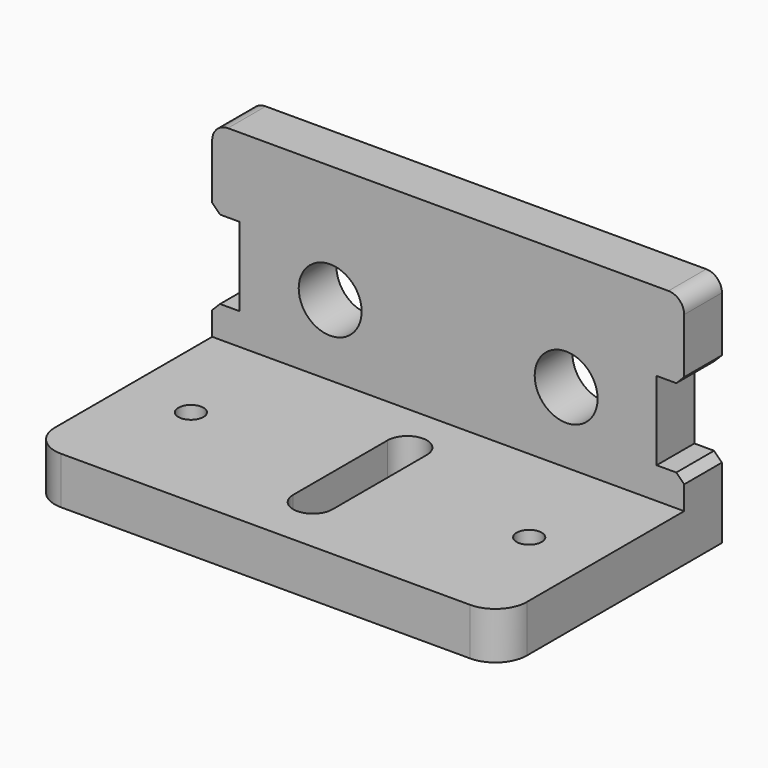
from build123d import *

# Parameters (mm, degrees)
F1_DEPTH  = 30
F3_D      = 3.2
F4_R      = 4
F4_W      = 3.5
F4_H      = 10
F5_DEPTH  = 35.001
F6_SIZE   = 1
F7_R      = 2
F8_R      = 4
F10_DEPTH = 6.001


with BuildPart() as f1:
    # F0 (on Right) → F1 (new body, symmetric)
    with BuildSketch(Plane.YZ):
        Polygon((-17.5, 0), (17.5, 0), (17.5, 30), (11.5, 30), (11.5, 6), (-17.5, 6), align=None)
    extrude(amount=F1_DEPTH, both=True)

    # F3 (through all)
    with Locations(Plane.XY.offset(6)):
        with Locations((-21.5, -2.5), (21.5, -2.5)):
            Hole(F3_D / 2)

    # F4 (on face) → F5 (cut, through all)
    with BuildSketch(Plane(origin=(0, 17.5, 0), x_dir=(-1, 0, 0), z_dir=(0, 1, 0))):
        with Locations((-15, 15)):
            Circle(F4_R)
        with Locations((15, 15)):
            Circle(F4_R)
        with Locations((28.25, 15)):
            Rectangle(F4_W, F4_H)
        with Locations((-28.25, 15)):
            Rectangle(F4_W, F4_H)
    extrude(amount=-F5_DEPTH, mode=Mode.SUBTRACT)

    # F6
    f6_edges = [f1.edges().sort_by_distance(p)[0] for p in [
        (-30, 14.5, 20),
        (-30, 14.5, 10),
        (30, 14.5, 20),
        (30, 14.5, 10),
    ]]
    chamfer(f6_edges, length=F6_SIZE)

    # F7
    f7_edges = [f1.edges().sort_by_distance(p)[0] for p in [
        (-30, 14.5, 30),
        (30, 14.5, 30),
    ]]
    fillet(f7_edges, radius=F7_R)

    # F8
    f8_edges = [f1.edges().sort_by_distance(p)[0] for p in [
        (-30, -17.5, 3),
        (30, -17.5, 3),
    ]]
    fillet(f8_edges, radius=F8_R)

    # F9 (on face) → F10 (cut, through all)
    with BuildSketch(Plane.XY.offset(6)):
        with BuildLine():
            ThreePointArc((2.5, 5), (0, 7.5), (-2.5, 5))
            Line((-2.5, 5), (-2.5, -10))
            ThreePointArc((-2.5, -10), (0, -12.5), (2.5, -10))
            Line((2.5, -10), (2.5, 5))
        make_face()
    extrude(amount=-F10_DEPTH, mode=Mode.SUBTRACT)


solid = f1.part
